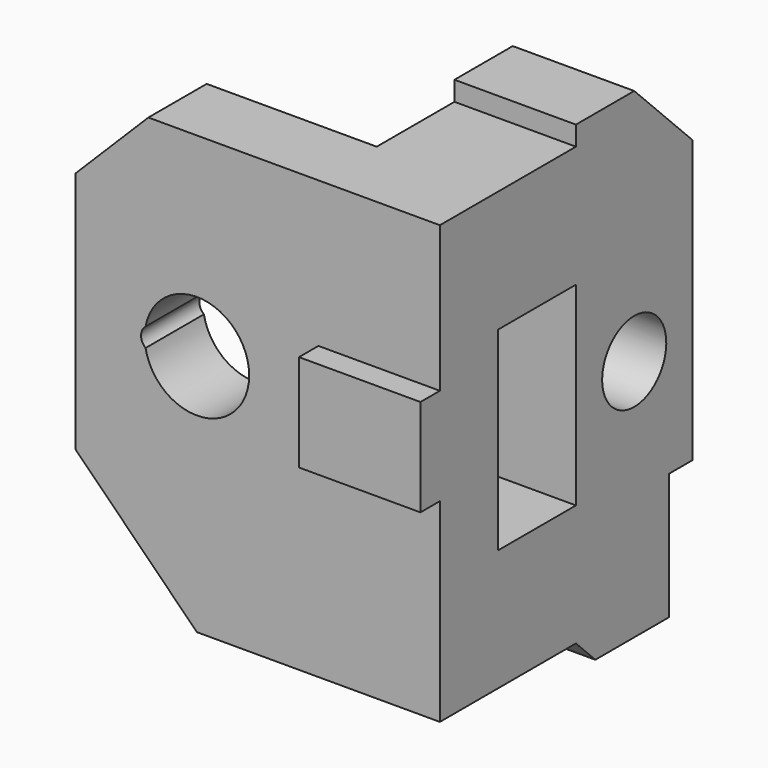
from build123d import *

# Parameters (mm, degrees)
BOX021019_W        = 5
BOX021019_H        = 7
BOX021019_DEPTH    = 5
BOX021018_W        = 5
BOX021018_H        = 7
BOX021018_DEPTH    = 5
CYLINDER015_R      = 1.65
CYLINDER015_DEPTH  = 10
BOX021014_W        = 5
BOX021014_H        = 2
BOX021014_DEPTH    = 5.2
BOX021013_W        = 5
BOX021013_H        = 6
BOX021013_DEPTH    = 19.8
CHAMFER016007_SIZE = 3
CHAMFER016008_SIZE = 1
CYLINDER016_R      = 2.15
CYLINDER016_DEPTH  = 10
CYLINDER017_R      = 0.5
CYLINDER017_DEPTH  = 10
BOX021020_W        = 15
BOX021020_H        = 3
BOX021020_DEPTH    = 18
CHAMFER016012_SIZE = 3
CHAMFER016013_SIZE = 5
BOX021016_W        = 5
BOX021016_H        = 1
BOX021016_DEPTH    = 4


with BuildPart() as cube037:
    # Box021019 → Box021019 (new body)
    with BuildSketch(Plane(origin=(-5, -4, 18), x_dir=(1, 0, 0), z_dir=(0, 0, 1))):
        with Locations((2.5, 3.5)):
            Rectangle(BOX021019_W, BOX021019_H)
    extrude(amount=BOX021019_DEPTH)


with BuildPart() as cube036:
    # Box021018 → Box021018 (new body)
    with BuildSketch(Plane(origin=(-5, -4, 5), x_dir=(1, 0, 0), z_dir=(0, 0, 1))):
        with Locations((2.5, 3.5)):
            Rectangle(BOX021018_W, BOX021018_H)
    extrude(amount=BOX021018_DEPTH)


with BuildPart() as cylinder015:
    # Cylinder015 → Cylinder015 (new body)
    with BuildSketch(Plane(origin=(0, 6, 15), x_dir=(0, 0, 1), z_dir=(-1, 0, 0))):
        Circle(CYLINDER015_R)
    extrude(amount=CYLINDER015_DEPTH)


with BuildPart() as cube032:
    # Box021014 → Box021014 (new body)
    with BuildSketch(Plane(origin=(-5, 7.8, 5), x_dir=(1, 0, 0), z_dir=(0, 0, 1))):
        with Locations((2.5, 1)):
            Rectangle(BOX021014_W, BOX021014_H)
    extrude(amount=BOX021014_DEPTH)


with BuildPart() as back_mount:
    # Box021013 → Box021013 (new body)
    with BuildSketch(Plane(origin=(-5, 3, 5), x_dir=(1, 0, 0), z_dir=(0, 0, 1))):
        with Locations((2.5, 3)):
            Rectangle(BOX021013_W, BOX021013_H)
    extrude(amount=BOX021013_DEPTH)

    # Chamfer016007
    chamfer016007_edges = [back_mount.edges().sort_by_distance(p)[0] for p in [
        (-2.5, 9, 24.8),
    ]]
    chamfer(chamfer016007_edges, length=CHAMFER016007_SIZE)

    # Chamfer016008
    chamfer016008_edges = [back_mount.edges().sort_by_distance(p)[0] for p in [
        (-2.5, 3, 5),
    ]]
    chamfer(chamfer016008_edges, length=CHAMFER016008_SIZE)

    # Cut004005004003002007: cut Cube032
    add(cube032.part, mode=Mode.SUBTRACT)

    # Cut004005004003002008: cut Cylinder015
    add(cylinder015.part, mode=Mode.SUBTRACT)


with BuildPart() as back_mount_1:
    # Cut004005004003002008 placement: moved
    add(back_mount.part.moved(Location((0, 0, -1))))


with BuildPart() as cylinder016:
    # Cylinder016 → Cylinder016 (new body)
    with BuildSketch(Plane(origin=(-10, 0, 12), x_dir=(1, 0, 0), z_dir=(0, -1, 0))):
        Circle(CYLINDER016_R)
    extrude(amount=CYLINDER016_DEPTH)


with BuildPart() as fusion003007008003:
    # Cylinder017 → Cylinder017 (new body)
    with BuildSketch(Plane(origin=(-11.8, 0, 12), x_dir=(1, 0, 0), z_dir=(0, -1, 0))):
        Circle(CYLINDER017_R)
    extrude(amount=CYLINDER017_DEPTH)

    # Fusion003007008003: union Cylinder016
    add(cylinder016.part)


with BuildPart() as fusion003007008003_1:
    # Fusion003007008003 placement: moved
    add(fusion003007008003.part.moved(Location((0, 0, 3))))


with BuildPart() as chamfer016013:
    # Box021020 → Box021020 (new body)
    with BuildSketch(Plane(origin=(-15, -4, 5), x_dir=(1, 0, 0), z_dir=(0, 0, 1))):
        with Locations((7.5, 1.5)):
            Rectangle(BOX021020_W, BOX021020_H)
    extrude(amount=BOX021020_DEPTH)

    # Cut004005004003002008002: cut Fusion003007008003
    add(fusion003007008003_1.part, mode=Mode.SUBTRACT)

    # Chamfer016012
    chamfer016012_edges = [chamfer016013.edges().sort_by_distance(p)[0] for p in [
        (-15, -2.5, 23),
    ]]
    chamfer(chamfer016012_edges, length=CHAMFER016012_SIZE)

    # Chamfer016013
    chamfer016013_edges = [chamfer016013.edges().sort_by_distance(p)[0] for p in [
        (-15, -2.5, 5),
    ]]
    chamfer(chamfer016013_edges, length=CHAMFER016013_SIZE)


with BuildPart() as f_4040_base:
    # Box021016 → Box021016 (new body)
    with BuildSketch(Plane(origin=(-5, -5, 13), x_dir=(1, 0, 0), z_dir=(0, 0, 1))):
        with Locations((2.5, 0.5)):
            Rectangle(BOX021016_W, BOX021016_H)
    extrude(amount=BOX021016_DEPTH)

    # Fusion003007008004003002003: union Cube037, Cube036, back-mount, Chamfer016013
    add(cube037.part)
    add(cube036.part)
    add(back_mount_1.part)
    add(chamfer016013.part)


solid = f_4040_base.part
